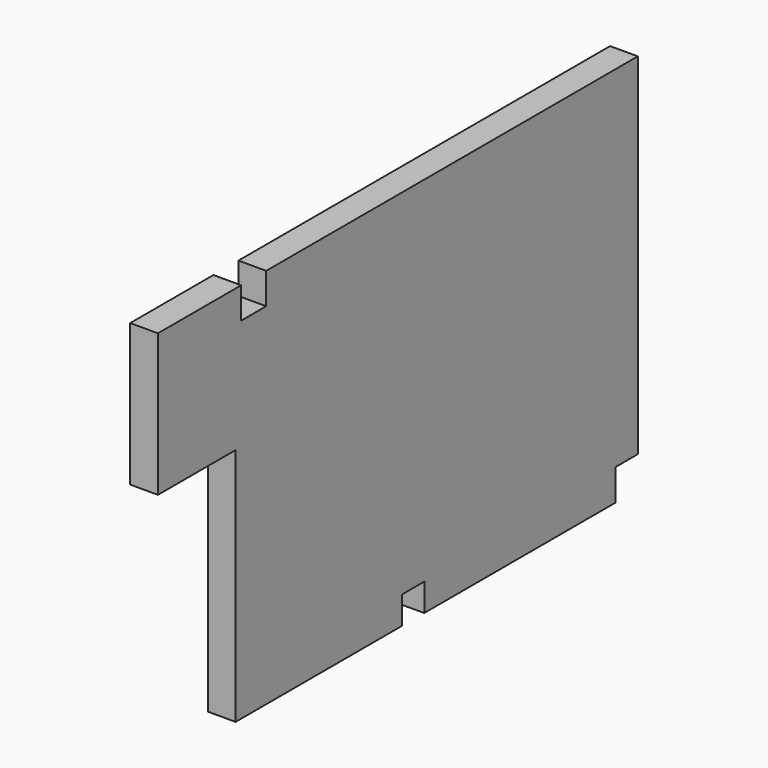
from build123d import *

# Parameters (mm, degrees)
F1_DEPTH = 10.16


with BuildPart() as f1:
    # F0 (on Right) → F1 (new body)
    with BuildSketch(Plane.YZ):
        Polygon((-33.151075, -29.448999), (-43.265525, -29.448999), (-203.323364, -29.448999), (-203.323364, -40.867418), (-214.765817, -40.867418), (-214.765817, -29.448999), (-252.887964, -29.448999), (-252.887964, -81.55378), (-217.317522, -81.55378), (-217.317522, -169.236988), (-141.089514, -169.236988), (-141.089514, -159.098729), (-130.937725, -159.098729), (-130.937725, -169.236988), (-43.265525, -169.236988), (-43.265525, -157.767057), (-33.151075, -157.767057), align=None)
    extrude(amount=F1_DEPTH)


solid = f1.part
